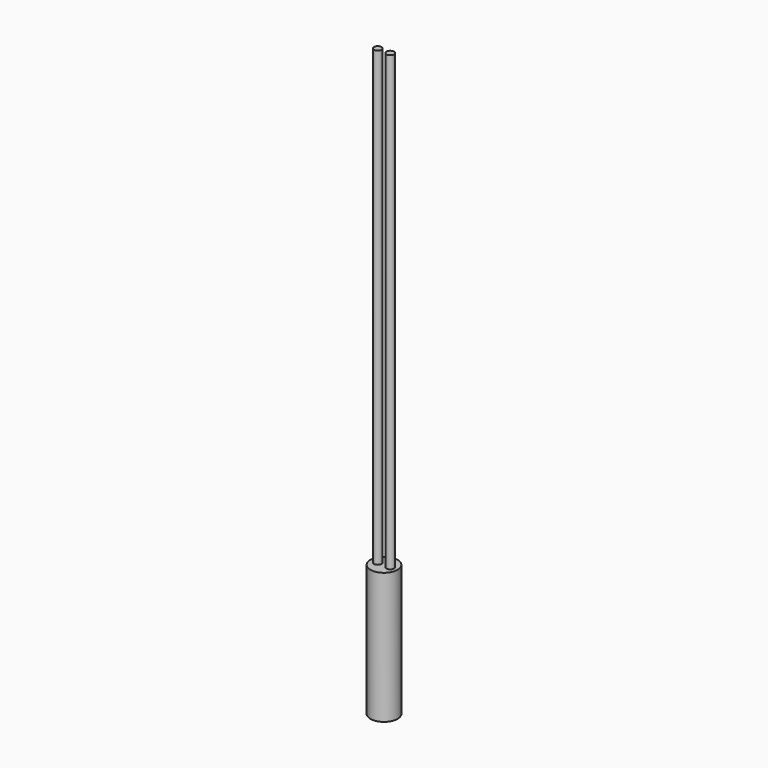
from build123d import *

# Parameters (mm, degrees)
SKETCH_R     = 1.5
PAD_DEPTH    = 14.5
SKETCH001_R  = 0.425
PAD001_DEPTH = 50


with BuildPart() as part:
    # Sketch → Pad (new body)
    with BuildSketch(Plane.XY):
        Circle(SKETCH_R)
    extrude(amount=PAD_DEPTH)

    # Sketch001 (on Face3 of Pad) → Pad001 (join)
    with BuildSketch(Plane.XY.offset(14.5)):
        with Locations((-0.69101, 0)):
            Circle(SKETCH001_R)
        with Locations((0.69101, 0)):
            Circle(SKETCH001_R)
    extrude(amount=PAD001_DEPTH)


solid = part.part
